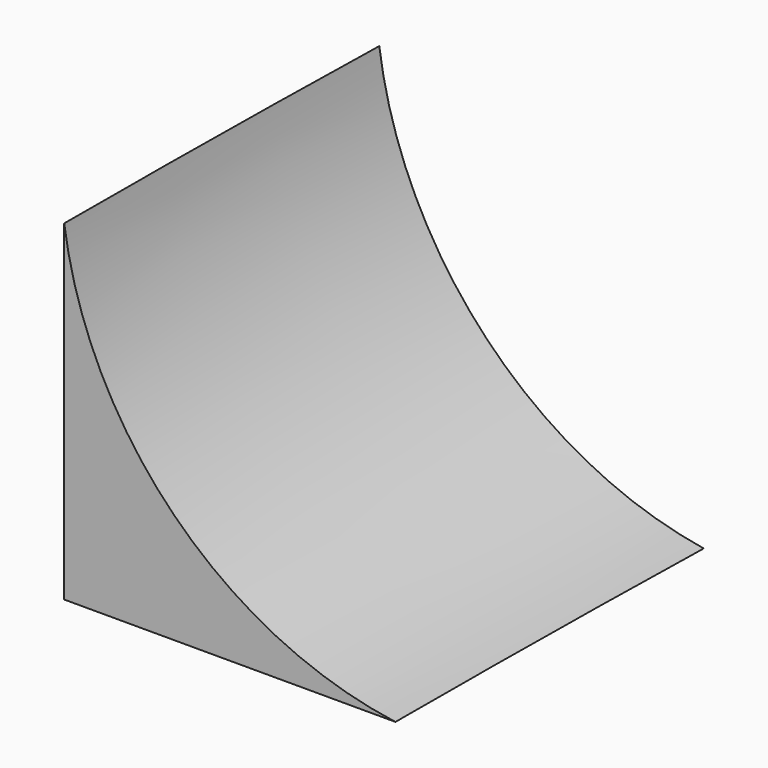
from build123d import *


with BuildPart() as f2:
    # F2: sweep along a path in F1
    with BuildLine(Plane.XY) as f2_path:
        ThreePointArc((3.8098015666, 304.7682509922), (0.9524875977, 152.396031281), (0, 0))
    # F0 (on Front) → F2 (sweep)
    with BuildSketch(Plane.XZ):
        with BuildLine():
            Line((0, 260.35), (0, 0))
            Line((0, 0), (260.35, 0))
            ThreePointArc((260.35, 0), (86.4219283273, 86.4219283273), (0, 260.35))
        make_face()
    sweep(path=f2_path.line)


solid = f2.part
